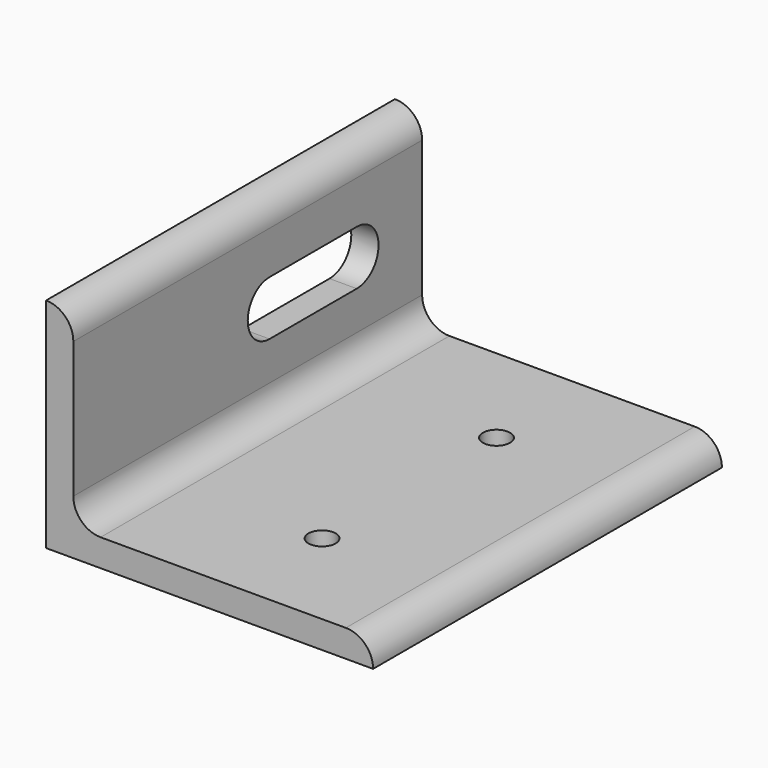
from build123d import *

# Parameters (mm, degrees)
F1_DEPTH = 50.8
F2_R     = 6.35
F4_D     = 6.35
F6_DEPTH = 76.201


with BuildPart() as f1:
    # F0 (on Front) → F1 (new body, symmetric)
    with BuildSketch(Plane.XZ):
        with BuildLine():
            ThreePointArc((6.35, 44.45), (4.490128, 48.940128), (0, 50.8))
            Line((0, 50.8), (0, 0))
            Line((0, 0), (76.2, 0))
            ThreePointArc((76.2, 0), (74.340128, 4.490128), (69.85, 6.35))
            Line((69.85, 6.35), (6.35, 6.35))
            Line((6.35, 6.35), (6.35, 44.45))
        make_face()
    extrude(amount=F1_DEPTH, both=True)

    # F2
    f2_edges = [f1.edges().sort_by_distance(p)[0] for p in [
        (6.35, 0, 6.35),
    ]]
    fillet(f2_edges, radius=F2_R)

    # F4 (through all)
    with Locations(Plane(origin=(0, 0, 0), x_dir=(1, 0, 0), z_dir=(0, 0, -1))):
        with Locations((44.45, 25.979519), (44.45, -24.820481)):
            Hole(F4_D / 2)

    # F5 (on face) → F6 (cut, through all)
    with BuildSketch(Plane(origin=(0, 0, 0), x_dir=(0, -1, 0), z_dir=(-1, 0, 0))):
        with BuildLine():
            Line((-6.35, 34.426071), (-31.75, 34.426071))
            ThreePointArc((-31.75, 34.426071), (-38.1, 28.076071), (-31.75, 21.726071))
            Line((-31.75, 21.726071), (-6.35, 21.726071))
            ThreePointArc((-6.35, 21.726071), (0, 28.076071), (-6.35, 34.426071))
        make_face()
    extrude(amount=-F6_DEPTH, mode=Mode.SUBTRACT)


solid = f1.part
